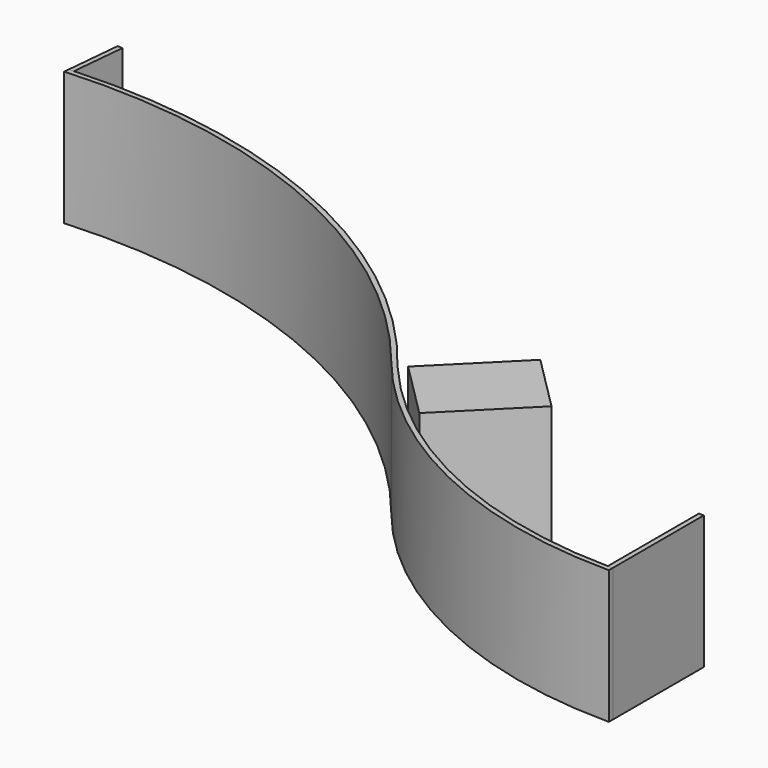
from build123d import *

# Parameters (mm, degrees)
F1_DEPTH = 685.8
F2_DEPTH = 685.8
F3_DEPTH = 685.8
F4_DEPTH = 685.8


with BuildPart() as f1:
    # F0 (on Top) → F1 (new body)
    with BuildSketch(Plane.XY):
        with BuildLine():
            Line((2064.4268335681, -2170.8805240781), (2064.4268335681, -1891.4805240781))
            ThreePointArc((2064.4268335681, -1891.4805240781), (2051.726582374, -1891.4405849964), (2039.0268335682, -1891.320769331))
            Line((2039.0268335681, -1891.320769331), (2039.0268335681, -2170.7401883026))
            Line((2039.0268335681, -2170.7401883026), (2064.4268335681, -2170.8805240781))
        make_face()
        with BuildLine():
            Line((2064.4268335681, -1891.4805240781), (2064.4268335681, -1586.6805240781))
            Line((2064.4268335681, -1586.6805240781), (2039.0268335681, -1586.6805240781))
            Line((2039.0268335681, -1586.6805240781), (2039.0268335681, -1891.320769331))
            ThreePointArc((2039.0268335682, -1891.320769331), (2051.726582374, -1891.4405849964), (2064.4268335681, -1891.4805240781))
        make_face()
    extrude(amount=-F1_DEPTH)


with BuildPart() as f2:
    # F0 (on Top) → F2 (new body)
    with BuildSketch(Plane.XY):
        with BuildLine():
            Line((-2317.6967938555, -152.0249940366), (-2343.3556362702, -153.5530842325))
            Line((-2343.3556362702, -153.5530842325), (-2345.7840120459, -179.1620260819))
            ThreePointArc((-2345.7840120459, -179.1620260819), (-907.7521586728, -433.8121667128), (249.7859527251, -1324.2546556476))
            ThreePointArc((249.7859527251, -1324.2546556476), (332.7689220118, -1422.2778395214), (421.0399634125, -1515.5673942338))
            Line((421.0399634125, -1515.5673942338), (439.0004756546, -1497.6068819916))
            ThreePointArc((439.0004756546, -1497.6068819916), (373.3444845796, -1429.1847562302), (310.5663609149, -1358.1129358871))
            Line((310.5663609149, -1358.1129358871), (300.9871304167, -1348.2520313553))
            ThreePointArc((300.9871304167, -1348.2520313553), (-860.7722517839, -427.062610277), (-2317.6967938555, -152.0249940366))
        make_face()
        with BuildLine():
            Line((439.0004756546, -1497.6068819916), (421.0399634125, -1515.5673942338))
            ThreePointArc((421.0399634125, -1515.5673942338), (1175.0322684085, -2019.3689455876), (2064.4268335681, -2196.2805240781))
            Line((2064.4268335681, -2196.2805240781), (2064.4268335681, -2170.8805240781))
            ThreePointArc((2064.4268335681, -2170.8805240781), (2051.7266397298, -2170.8454398665), (2039.0268335681, -2170.7401883026))
            ThreePointArc((2039.0268335681, -2170.7401883026), (1267.6469310258, -2028.3724164904), (589.0477069831, -1634.9278465373))
            ThreePointArc((589.0477069831, -1634.9278465373), (512.5045014265, -1567.9277826635), (439.0004756546, -1497.6068819916))
        make_face()
    extrude(amount=-F2_DEPTH)


with BuildPart() as f3:
    # F0 (on Top) → F3 (new body)
    with BuildSketch(Plane.XY):
        with BuildLine():
            Line((-2291.3076398854, 126.2673181521), (-2316.6743968408, 127.8194759219))
            Line((-2316.6743968408, 127.8194759219), (-2343.3556362702, -153.5530842325))
            ThreePointArc((-2343.3556362702, -153.5530842325), (-2330.5278016841, -152.7623974711), (-2317.6967938555, -152.0249940366))
            Line((-2317.6967938555, -152.0249940366), (-2291.3076398854, 126.2673181521))
        make_face()
    extrude(amount=-F3_DEPTH)


with BuildPart() as f4:
    # F0 (on Top) → F4 (new body)
    with BuildSketch(Plane.XY):
        with BuildLine():
            Line((636.5661103181, -1300.0412473281), (852.0922572238, -1084.5151004224))
            Line((852.0922572238, -1084.5151004224), (708.4081592867, -940.8310024853))
            Line((708.4081592867, -940.8310024853), (500.129795735, -1149.109366037))
            ThreePointArc((500.129795735, -1149.109366037), (566.4458173333, -1226.2947603965), (636.5661103182, -1300.0412473281))
        make_face()
        with BuildLine():
            Line((995.7763551609, -1228.1991983595), (852.0922572238, -1084.5151004224))
            Line((852.0922572238, -1084.5151004224), (636.5661103181, -1300.0412473281))
            ThreePointArc((636.5661103182, -1300.0412473281), (710.3125972498, -1370.161540313), (787.4979916092, -1436.4775619112))
            Line((787.4979916092, -1436.4775619112), (995.7763551609, -1228.1991983595))
        make_face()
        with BuildLine():
            ThreePointArc((636.5661103182, -1300.0412473281), (566.4458173333, -1226.2947603965), (500.129795735, -1149.109366037))
            Line((500.129795735, -1149.109366037), (331.2374022018, -1318.0017595702))
            Line((331.2374022018, -1318.0017595702), (474.9215001389, -1461.6858575073))
            Line((474.9215001389, -1461.6858575073), (636.5661103181, -1300.0412473281))
        make_face()
        with BuildLine():
            ThreePointArc((787.4979916092, -1436.4775619112), (710.3125972498, -1370.161540313), (636.5661103182, -1300.0412473281))
            Line((636.5661103181, -1300.0412473281), (474.9215001389, -1461.6858575073))
            Line((474.9215001389, -1461.6858575073), (618.605598076, -1605.3699554445))
            Line((618.605598076, -1605.3699554445), (787.4979916092, -1436.4775619112))
        make_face()
    extrude(amount=-F4_DEPTH)


solid = Compound([f1.part, f2.part, f3.part, f4.part])
